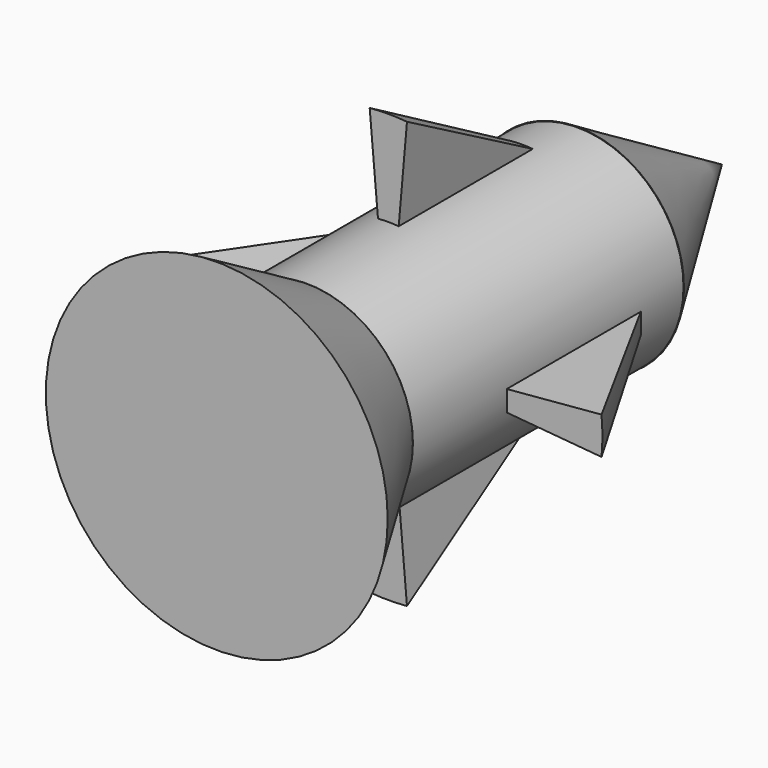
from build123d import *

# Parameters (mm, degrees)
F0_R          = 30.8008528238
F1_DEPTH      = 98.298
F2_R          = 30.7735652655
F3_DEPTH      = 32.766
F3_TAPER      = -30
F8_ANGLE_BACK = 5
F8_ANGLE      = 10
F9_COUNT      = 4


with BuildPart() as f1:
    # F0 (on Front) → F1 (new body)
    with BuildSketch(Plane.XZ):
        Circle(F0_R)
    extrude(amount=F1_DEPTH)

    # F2 (on face) → F3 (join)
    with BuildSketch(Plane.XZ.offset(98.298)):
        Circle(F2_R)
    extrude(amount=F3_DEPTH, taper=F3_TAPER)

    # F4 (on Right) → F5 (revolve)
    with BuildSketch(Plane.YZ):
        Polygon((0, 30.9423785657), (0, 0), (52.4485334754, 0), align=None)
    revolve(axis=Axis((0, 26.2242667377, 0), (0, 1, 0)))


with BuildPart() as f8:
    # F7 (on Top) → F8 (revolve)
    with BuildSketch(Plane.XY, mode=Mode.PRIVATE) as f8_sk:
        Polygon((34.5550104976, -20.0330447406), (34.5550104976, -68.7358230352), (62.1971264482, -68.7358230352), align=None)
    revolve(f8_sk.sketch.rotate(Axis((0, 0, 0), (0, 1, 0)), -F8_ANGLE_BACK), axis=Axis((0, 0, 0), (0, 1, 0)), revolution_arc=F8_ANGLE)


with BuildPart() as f9_1:
    # F9: instance of F8
    add(f8.part.rotate(Axis((0, -49.3838861585, 0), (0, 1, 0)), 1 * 360 / F9_COUNT))


with BuildPart() as f9_2:
    # F9: instance of F8
    add(f8.part.rotate(Axis((0, -49.3838861585, 0), (0, 1, 0)), 2 * 360 / F9_COUNT))


with BuildPart() as f9_3:
    # F9: instance of F8
    add(f8.part.rotate(Axis((0, -49.3838861585, 0), (0, 1, 0)), 3 * 360 / F9_COUNT))


solid = Compound([f1.part, f8.part, f9_1.part, f9_2.part, f9_3.part])
